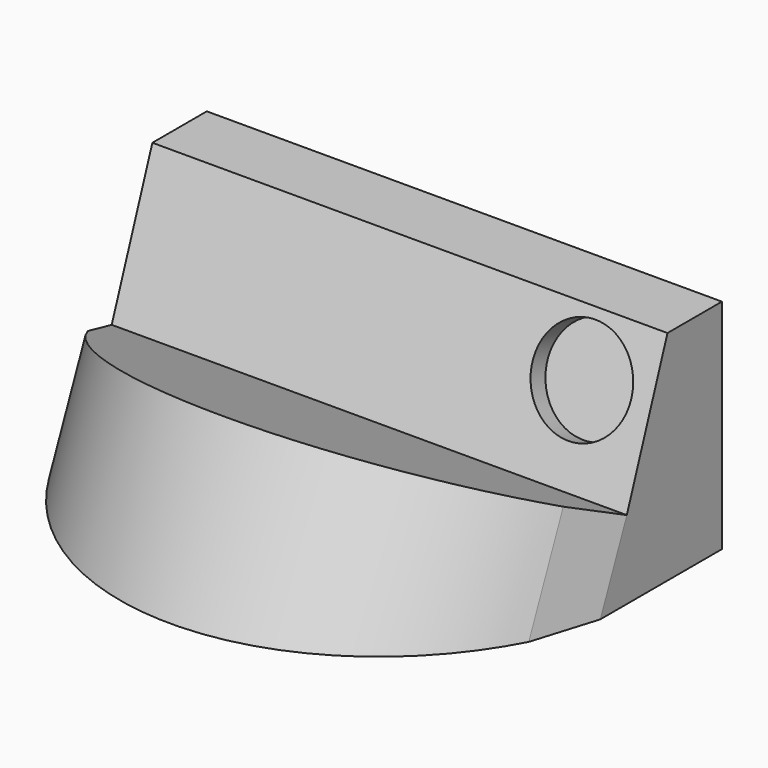
from build123d import *

# Parameters (mm, degrees)
F1_DEPTH = 26
F2_R     = 2.5
F3_DEPTH = 1
F5_DEPTH = 9.1093520504


with BuildPart() as f1:
    # F0 (on Right) → F1 (new body)
    with BuildSketch(Plane.YZ):
        Polygon((0, 0), (0, 11), (-3.4348489251, 11), (-6, 3.9523053441), (-20, 9.894952771), (-20, 0), align=None)
    extrude(amount=F1_DEPTH)

    # F2 (on face) → F3 (cut)
    with BuildSketch(Plane(origin=(0, -6.5683797818, 2.3906947279), x_dir=(1, 0, 0), z_dir=(0, -0.9396926208, 0.3420201433))):
        with Locations((22.5, 6.161831307)):
            Circle(F2_R)
    extrude(amount=-F3_DEPTH, mode=Mode.SUBTRACT)

    # F4 (on face) → F5 (cut, through all)
    with BuildSketch(Plane(origin=(0, 0.5055003799, 1.190884266), x_dir=(1, 0, 0), z_dir=(0, 0.3907311285, 0.9205048535))):
        with BuildLine():
            Line((26, -7.067317848), (25, -10.067317848))
            ThreePointArc((25, -10.067317848), (13, -17.067317848), (1, -10.067317848))
            Line((1, -10.067317848), (0, -7.067317848))
            Line((0, -7.067317848), (0, -22.2763631316))
            Line((0, -22.2763631316), (26, -22.2763631316))
            Line((26, -22.2763631316), (26, -7.067317848))
        make_face()
        with BuildLine():
            Line((26, -7.067317848), (25, -10.067317848))
            ThreePointArc((25, -10.067317848), (13, -17.067317848), (1, -10.067317848))
            Line((1, -10.067317848), (0, -7.067317848))
            Line((0, -7.067317848), (0, -22.2763631316))
            Line((0, -22.2763631316), (26, -22.2763631316))
            Line((26, -22.2763631316), (26, -7.067317848))
        make_face()
    extrude(amount=-F5_DEPTH, mode=Mode.SUBTRACT)


solid = f1.part
